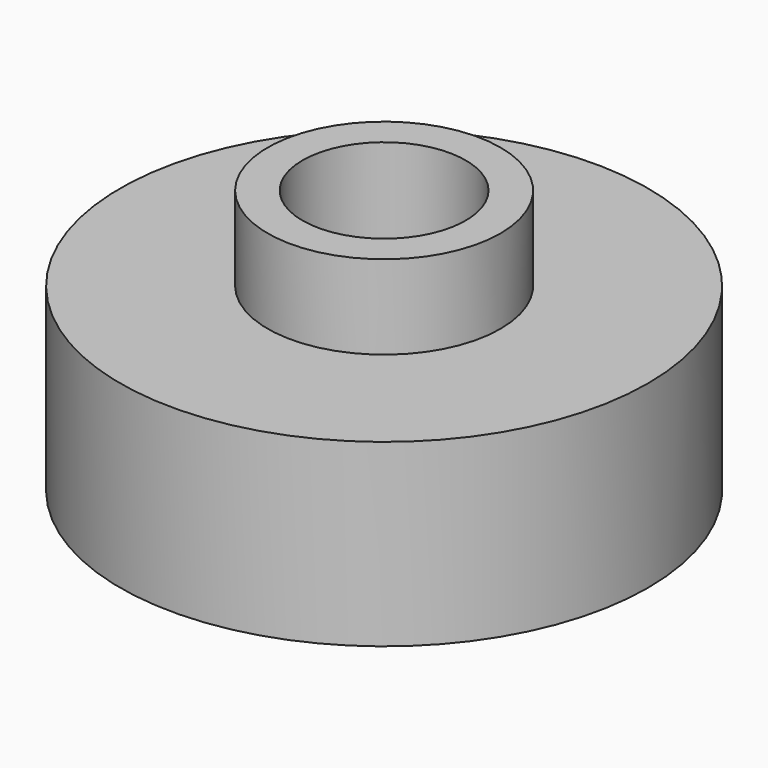
from build123d import *

# Parameters (mm, degrees)
F0_R     = 11
F0_R_2   = 4.85
F1_DEPTH = 7.5
F2_DEPTH = 11
F3_D     = 6.8


with BuildPart() as f1:
    # F0 (on Top) → F1 (new body)
    with BuildSketch(Plane.XY):
        Circle(F0_R)
        Circle(F0_R_2, mode=Mode.SUBTRACT)
        Circle(F0_R_2)
    extrude(amount=F1_DEPTH)

    # F0 (on Top) → F2 (join)
    with BuildSketch(Plane.XY):
        Circle(F0_R_2)
    extrude(amount=F2_DEPTH)

    # F3 (through all)
    with Locations(Plane(origin=(0, 0, 0), x_dir=(1, 0, 0), z_dir=(0, 0, -1))):
        with Locations((0, 0)):
            Hole(F3_D / 2)


solid = f1.part
